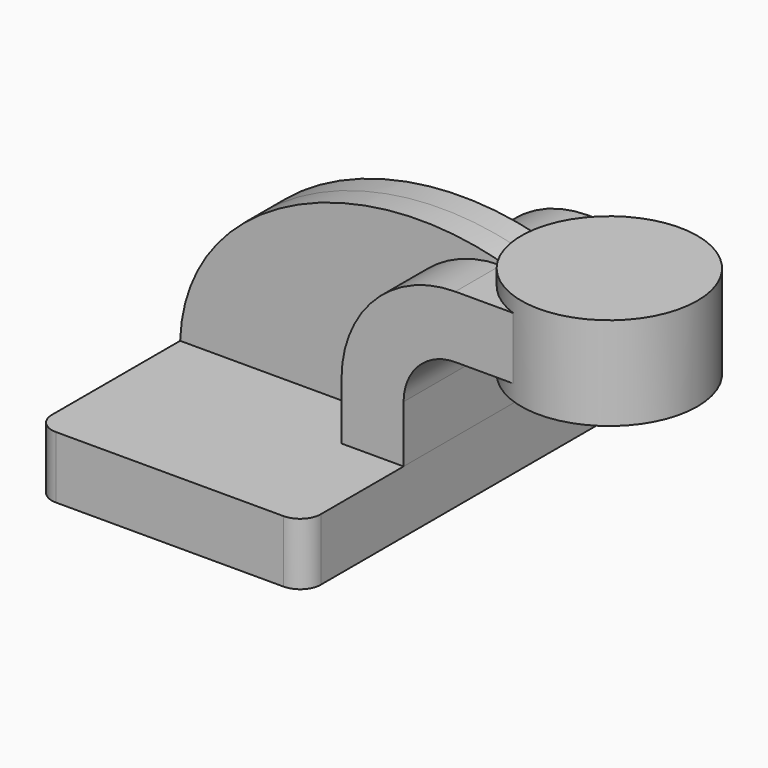
from build123d import *

# Parameters (mm, degrees)
F1_DEPTH = 63.5
F2_DEPTH = 25.4
F0_W     = 23.776155
F0_H     = 19.05
F3_DEPTH = 25.4
F5_DEPTH = 7.9375
F6_R     = 6.35


with BuildPart() as f1:
    # F0 (on Front) → F1 (new body, symmetric)
    with BuildSketch(Plane.XZ):
        Polygon((22.225, 9.525), (-41.275, 9.525), (-41.275, -9.525), (41.275, -9.525), (41.275, 9.525), align=None)
    extrude(amount=F1_DEPTH, both=True)

    # F6
    f6_edges = [f1.edges().sort_by_distance(p)[0] for p in [
        (41.275, -63.5, 0),
        (-41.275, -63.5, 0),
        (-41.275, 63.5, 0),
        (41.275, 63.5, 0),
    ]]
    fillet(f6_edges, radius=F6_R)


with BuildPart() as f2:
    # F0 (on Front) → F2 (new body, symmetric)
    with BuildSketch(Plane.XZ):
        with BuildLine():
            Line((22.225, 27.0002), (22.225, 9.525))
            Line((22.225, 9.525), (41.275, 9.525))
            Line((41.275, 9.525), (41.275, 27.0002))
            ThreePointArc((41.275, 27.0002), (45.92468, 38.22552), (57.15, 42.8752))
            Line((57.15, 42.8752), (60.325, 42.8752))
            Line((60.325, 42.8752), (60.325, 61.9252))
            Line((60.325, 61.9252), (57.15, 61.9252))
            ThreePointArc((57.15, 61.9252), (32.454296, 51.695904), (22.225, 27.0002))
        make_face()
    extrude(amount=F2_DEPTH, both=True)

    # F0 (on Front) → F3 (join, symmetric)
    with BuildSketch(Plane.XZ):
        with Locations((72.213077, 52.4002)):
            Rectangle(F0_W, F0_H)
    extrude(amount=F3_DEPTH, both=True)

    # F0 (on Front) → F4 (revolve)
    with BuildSketch(Plane.XZ):
        Polygon((84.101155, 66.675), (84.101155, 61.9252), (84.101155, 42.8752), (84.101155, 38.1), (111.125, 38.1), (111.125, 66.675), align=None)
    revolve(axis=Axis((84.101155, 0, 52.3875), (0, 0, -1)))


with BuildPart() as f5:
    # F0 (on Front) → F5 (new body, symmetric)
    with BuildSketch(Plane.XZ):
        with BuildLine():
            add(Edge.make_bspline(
                [(-41.275, 9.525), (-39.837386, 51.831443), (13.850276, 76.390699), (60.325, 61.9252)],
                knots=[0, 0, 0, 0, 114.316845, 114.316845, 114.316845, 114.316845], degree=3))
            Line((-41.275, 9.525), (22.225, 9.525))
            Line((22.225, 9.525), (22.225, 27.0002))
            ThreePointArc((22.225, 27.0002), (32.454296, 51.695904), (57.15, 61.9252))
            Line((57.15, 61.9252), (60.325, 61.9252))
        make_face()
    extrude(amount=F5_DEPTH, both=True)


solid = Compound([f1.part, f2.part, f5.part])
